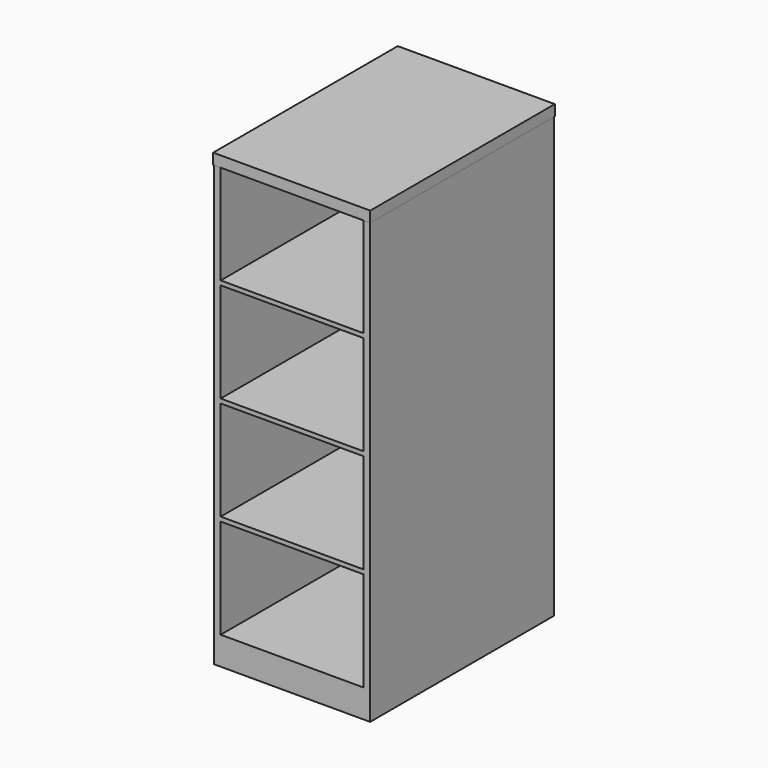
from build123d import *

# Parameters (mm, degrees)
F0_W     = 457.2
F0_H     = 673.1
F1_DEPTH = 1289.05
F2_W     = 460.375
F2_H     = 676.275
F2_W_2   = 457.2
F2_H_2   = 673.1
F3_DEPTH = 31.75
F4_W     = 419.1
F4_H     = 292.1
F5_DEPTH = 666.75


with BuildPart() as f1:
    # F0 (on Top) → F1 (new body)
    with BuildSketch(Plane.XY):
        with Locations((228.6, -336.55)):
            Rectangle(F0_W, F0_H)
    extrude(amount=F1_DEPTH)

    # F2 (on face) → F3 (join)
    with BuildSketch(Plane.XY.offset(1289.05)):
        with Locations((228.6, -336.55)):
            Rectangle(F2_W, F2_H)
        with Locations((228.6, -336.55)):
            Rectangle(F2_W_2, F2_H_2, mode=Mode.SUBTRACT)
        with Locations((228.6, -336.55)):
            Rectangle(F2_W_2, F2_H_2)
    extrude(amount=F3_DEPTH)

    # F4 (on face) → F5 (cut)
    with BuildSketch(Plane.XZ.offset(673.1)):
        with Locations((228.6, 1143)):
            Rectangle(F4_W, F4_H)
        with Locations((228.6, 838.2)):
            Rectangle(F4_W, F4_H)
        with Locations((228.6, 533.4)):
            Rectangle(F4_W, F4_H)
        with Locations((228.6, 228.6)):
            Rectangle(F4_W, F4_H)
    extrude(amount=-F5_DEPTH, mode=Mode.SUBTRACT)


solid = f1.part
